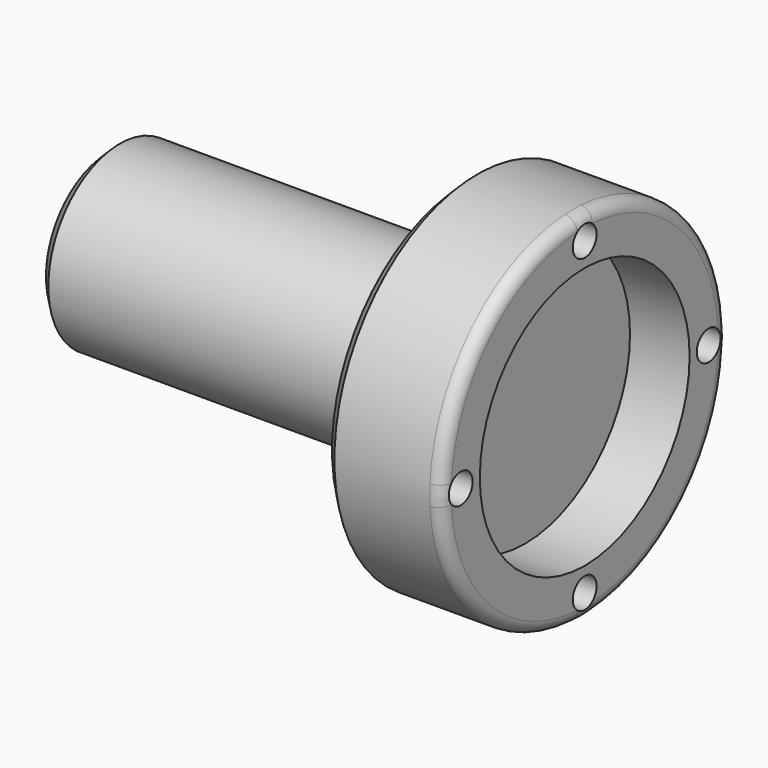
from build123d import *

# Parameters (mm, degrees)
SKETCH_R           = 15
PAD_DEPTH          = 10
SKETCH001_R        = 11
POCKET_DEPTH       = 5
SKETCH002_R        = 7.5
PAD001_DEPTH       = 30
SKETCH003_R        = 1.25
POCKET001_DEPTH    = 3
POLARPATTERN_COUNT = 4
SKETCH004_R        = 4
POCKET002_DEPTH    = 10
POCKET003_DEPTH    = 2.5
FILLET_R           = 1
CHAMFER_ANGLE      = 45
CHAMFER_SIZE       = 1
CHAMFER001_ANGLE   = 45
CHAMFER001_SIZE    = 1


with BuildPart() as part:
    # Sketch → Pad (new body)
    with BuildSketch(Plane.YZ):
        Circle(SKETCH_R)
    extrude(amount=PAD_DEPTH)

    # Sketch001 (on Face3 of Pad) → Pocket (cut)
    with BuildSketch(Plane.YZ.offset(10)):
        Circle(SKETCH001_R)
    extrude(amount=-POCKET_DEPTH, mode=Mode.SUBTRACT)

    # Sketch002 (on Face2 of Pocket) → Pad001 (join)
    with BuildSketch(Plane(origin=(0, 0, 0), x_dir=(0, 1, 0), z_dir=(-1, 0, 0))):
        Circle(SKETCH002_R)
    extrude(amount=PAD001_DEPTH)

    # Sketch003 (on Face3 of Pad001) → Pocket001 (cut)
    with BuildSketch(Plane.YZ.offset(10)):
        with Locations((0, 13)):
            Circle(SKETCH003_R)
    pocket001 = extrude(amount=-POCKET001_DEPTH, mode=Mode.SUBTRACT)

    # PolarPattern: Pocket001 ×4 about axis
    polarpattern_axis = Axis((10, 0, 0), (1, 0, 0))
    for i in range(1, POLARPATTERN_COUNT):
        add(pocket001.rotate(polarpattern_axis, i * 360 / POLARPATTERN_COUNT), mode=Mode.SUBTRACT)

    # Sketch004 (on Face10 of PolarPattern) → Pocket002 (cut)
    with BuildSketch(Plane(origin=(-30, 0, 0), x_dir=(0, 1, 0), z_dir=(-1, 0, 0))):
        Circle(SKETCH004_R)
    extrude(amount=-POCKET002_DEPTH, mode=Mode.SUBTRACT)

    # Sketch005 (on DatumPlane) → Pocket003 (cut, symmetric)
    with BuildSketch(Plane(origin=(-15, 7.5, 0), x_dir=(0, 0, -1), z_dir=(-0.087156, 0.996195, 0))):
        with BuildLine():
            ThreePointArc((3, 6.025), (0, 9.025), (-3, 6.025))
            Line((-3, 6.025), (-3, -6.025))
            ThreePointArc((-3, -6.025), (0, -9.025), (3, -6.025))
            Line((3, -6.025), (3, 6.025))
        make_face()
    extrude(amount=POCKET003_DEPTH, both=True, mode=Mode.SUBTRACT)

    # Fillet
    fillet_edges = [part.edges().sort_by_distance(p)[0] for p in [
        (10, -15, 0),
    ]]
    fillet(fillet_edges, radius=FILLET_R)

    # Chamfer
    chamfer_edges = [part.edges().sort_by_distance(p)[0] for p in [
        (0, -15, 0),
    ]]
    chamfer_side = part.faces().sort_by_distance((4.520615, -15, 0))[0]
    chamfer(chamfer_edges, length=CHAMFER_SIZE, angle=CHAMFER_ANGLE, reference=chamfer_side)

    # Chamfer001
    chamfer001_edges = [part.edges().sort_by_distance(p)[0] for p in [
        (-30, -7.5, 0),
    ]]
    chamfer001_side = part.faces().sort_by_distance((-15, -7.5, 0))[0]
    chamfer(chamfer001_edges, length=CHAMFER001_SIZE, angle=CHAMFER001_ANGLE, reference=chamfer001_side)


solid = part.part
